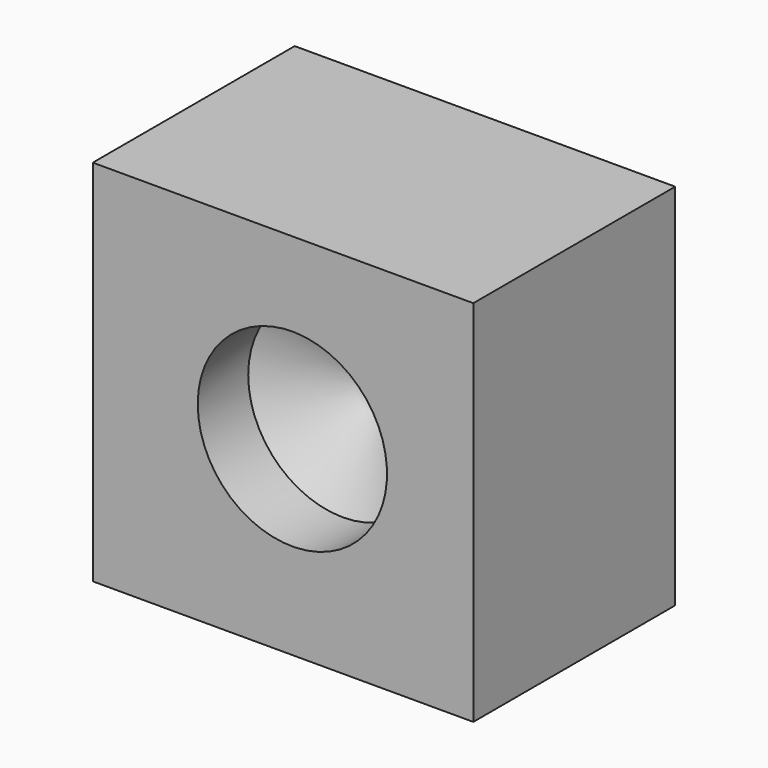
from build123d import *

# Parameters (mm, degrees)
F0_W     = 153.1912684441
F0_H     = 148.411154747
F1_DEPTH = 101.6
F3_D     = 76.2
F3_DEPTH = 25.4
F3_TIP   = 22.892789585


with BuildPart() as f1:
    # F0 (on Front) → F1 (new body)
    with BuildSketch(Plane.XZ):
        with Locations((1.7071813345, -2.3900568485)):
            Rectangle(F0_W, F0_H)
    extrude(amount=F1_DEPTH)

    # F3
    with Locations(Plane.XZ.offset(101.6)):
        with Locations((5.4629854858, 0)):
            Hole(F3_D / 2, depth=F3_DEPTH)
            with Locations((0, 0, -(F3_DEPTH + F3_TIP / 2))):  # 118° drill point
                Cone(0, F3_D / 2, F3_TIP, mode=Mode.SUBTRACT)


solid = f1.part
